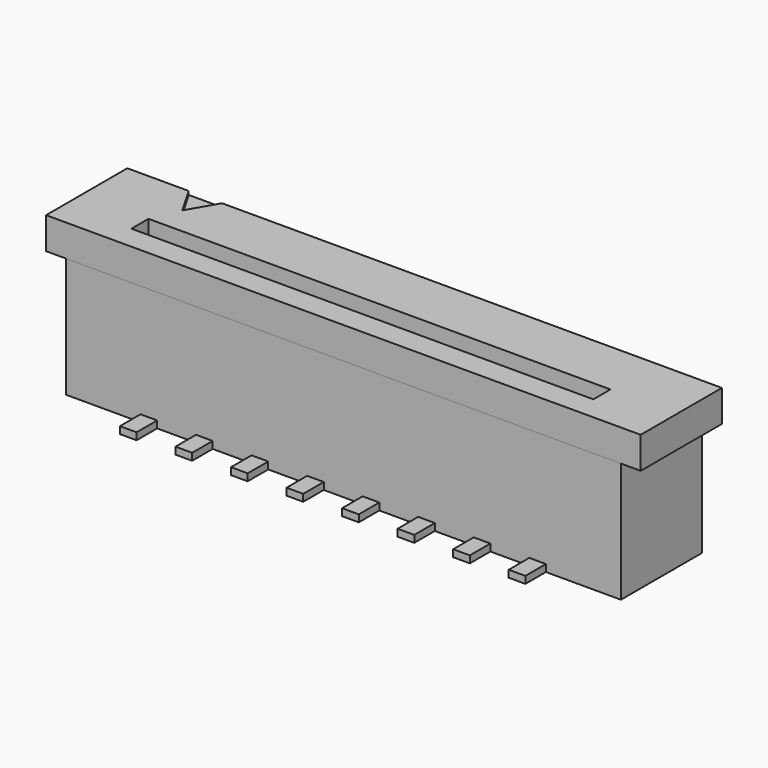
from build123d import *

# Parameters (mm, degrees)
F0_W     = 19.9898
F0_H     = 3.6576
F1_DEPTH = 4.318
F2_W     = 21.4122
F2_H     = 3.6576
F3_DEPTH = 1.143
F4_W     = 0.6
F4_H     = 1.85
F5_DEPTH = 0.254
F6_W     = 16.637
F6_H     = 0.770496
F7_DEPTH = 3.175
F9_DEPTH = 0.127


with BuildPart() as f1:
    # F0 (on Top) → F1 (new body)
    with BuildSketch(Plane.XY):
        Rectangle(F0_W, F0_H)
    extrude(amount=F1_DEPTH)


with BuildPart() as f3:
    # F2 (on face) → F3 (new body)
    with BuildSketch(Plane.XY.offset(4.318)):
        Rectangle(F2_W, F2_H)
    extrude(amount=F3_DEPTH)


with BuildPart() as f5:
    # F4 (on face) → F5 (new body)
    with BuildSketch(Plane(origin=(0, 0, 0), x_dir=(1, 0, 0), z_dir=(0, 0, -1))):
        with Locations((-7.0061, 1.8288)):
            Rectangle(F4_W, F4_H)
        with Locations((-5.0061, 1.8288)):
            Rectangle(F4_W, F4_H)
        with Locations((-3.0061, 1.8288)):
            Rectangle(F4_W, F4_H)
        with Locations((-1.0061, 1.8288)):
            Rectangle(F4_W, F4_H)
        with Locations((0.9939, 1.8288)):
            Rectangle(F4_W, F4_H)
        with Locations((2.9939, 1.8288)):
            Rectangle(F4_W, F4_H)
        with Locations((4.9939, 1.8288)):
            Rectangle(F4_W, F4_H)
        with Locations((6.9939, 1.8288)):
            Rectangle(F4_W, F4_H)
        with Locations((-6.0061, -1.8288)):
            Rectangle(F4_W, F4_H)
        with Locations((-4.0061, -1.8288)):
            Rectangle(F4_W, F4_H)
        with Locations((-2.0061, -1.8288)):
            Rectangle(F4_W, F4_H)
        with Locations((-0.0061, -1.8288)):
            Rectangle(F4_W, F4_H)
        with Locations((1.9939, -1.8288)):
            Rectangle(F4_W, F4_H)
        with Locations((3.9939, -1.8288)):
            Rectangle(F4_W, F4_H)
        with Locations((5.9939, -1.8288)):
            Rectangle(F4_W, F4_H)
    extrude(amount=-F5_DEPTH)


with BuildPart() as f7_tool:
    # F6 (on face) → F7 (new body)
    with BuildSketch(Plane.XY.offset(5.461)):
        with Locations((0, -0.588448)):
            Rectangle(F6_W, F6_H)
    extrude(amount=-F7_DEPTH)


with BuildPart() as f1_1:
    add(f1.part)

    # F7: cut by f7_tool
    add(f7_tool.part, mode=Mode.SUBTRACT)


with BuildPart() as f3_1:
    add(f3.part)

    # F7: cut by f7_tool
    add(f7_tool.part, mode=Mode.SUBTRACT)

    # F8 (on face) → F9 (cut)
    with BuildSketch(Plane.XY.offset(5.461)):
        Polygon((-7.895846, 0.789492), (-7.295801, 1.8288), (-8.495891, 1.8288), align=None)
    extrude(amount=-F9_DEPTH, mode=Mode.SUBTRACT)


solid = Compound([f5.part, f1_1.part, f3_1.part])
